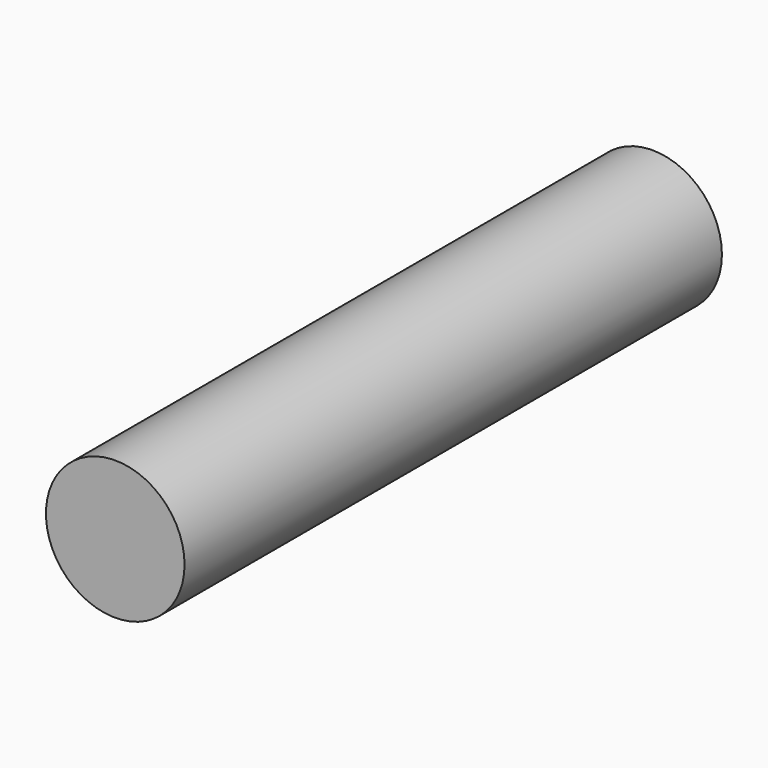
from build123d import *

# Parameters (mm, degrees)
SKETCH_R  = 6.5
PAD_DEPTH = 63


with BuildPart() as part:
    # Sketch → Pad (new body)
    with BuildSketch(Plane.XZ):
        Circle(SKETCH_R)
    extrude(amount=PAD_DEPTH)


solid = part.part
